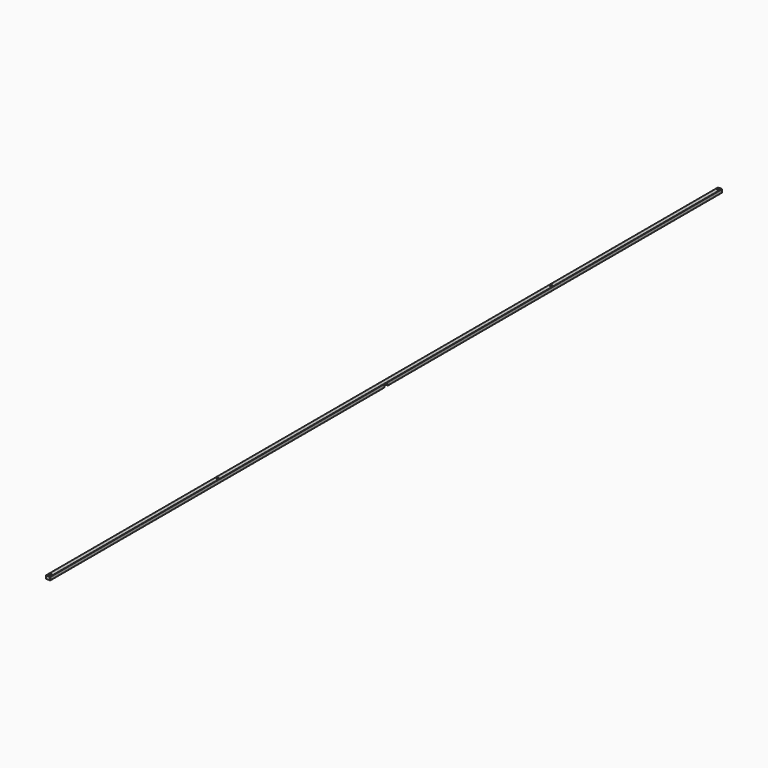
from build123d import *

# Parameters (mm, degrees)
F0_W     = 7.9375
F0_H     = 1527.175
F0_R     = 2.15265
F1_DEPTH = 6.35
F2_W     = 7.9375
F2_H     = 3.175
F3_DEPTH = 7.9375
F5_DEPTH = 6.35
F6_R     = 0.762


with BuildPart() as f1:
    # F0 (on Top) → F1 (new body)
    with BuildSketch(Plane.XY):
        Rectangle(F0_W, F0_H)
        with Locations((0, -758.03125)):
            Circle(F0_R, mode=Mode.SUBTRACT)
        with Locations((0, -379.015625)):
            Circle(F0_R, mode=Mode.SUBTRACT)
        with Locations((0, 379.015625)):
            Circle(F0_R, mode=Mode.SUBTRACT)
        with Locations((0, 758.03125)):
            Circle(F0_R, mode=Mode.SUBTRACT)
    extrude(amount=F1_DEPTH)

    # F2 (on face) → F3 (cut, through all)
    with BuildSketch(Plane.YZ.offset(3.96875)):
        with Locations((0, 1.5875)):
            Rectangle(F2_W, F2_H)
    extrude(amount=-F3_DEPTH, mode=Mode.SUBTRACT)

    # F4 (on face) → F5 (cut, through all)
    with BuildSketch(Plane.XY.offset(6.35)):
        Polygon((-3.96875, 762.5240766425), (0, 763.5875), (3.96875, 762.5240766425), (3.96875, 770.4615766425), (-3.96875, 770.4615766425), align=None)
    extrude(amount=-F5_DEPTH, mode=Mode.SUBTRACT)

    # F6
    f6_edges = [f1.edges().sort_by_distance(p)[0] for p in [
        (-1.984375, 763.055788, 6.35),
        (1.984375, 763.055788, 6.35),
        (0, 763.5875, 3.175),
        (3.96875, 762.524077, 3.175),
        (-3.96875, 762.524077, 3.175),
        (-3.96875, -0.531712, 6.35),
        (3.96875, -0.531712, 6.35),
        (-3.96875, 383.246413, 0),
        (-1.984375, 763.055788, 0),
        (1.984375, 763.055788, 0),
        (3.96875, 383.246413, 0),
        (3.96875, -763.5875, 3.175),
        (3.96875, -383.778125, 0),
        (0, -763.5875, 0),
        (-3.96875, -763.5875, 3.175),
        (0, -763.5875, 6.35),
        (-3.96875, -383.778125, 0),
    ]]
    fillet(f6_edges, radius=F6_R)


solid = f1.part
